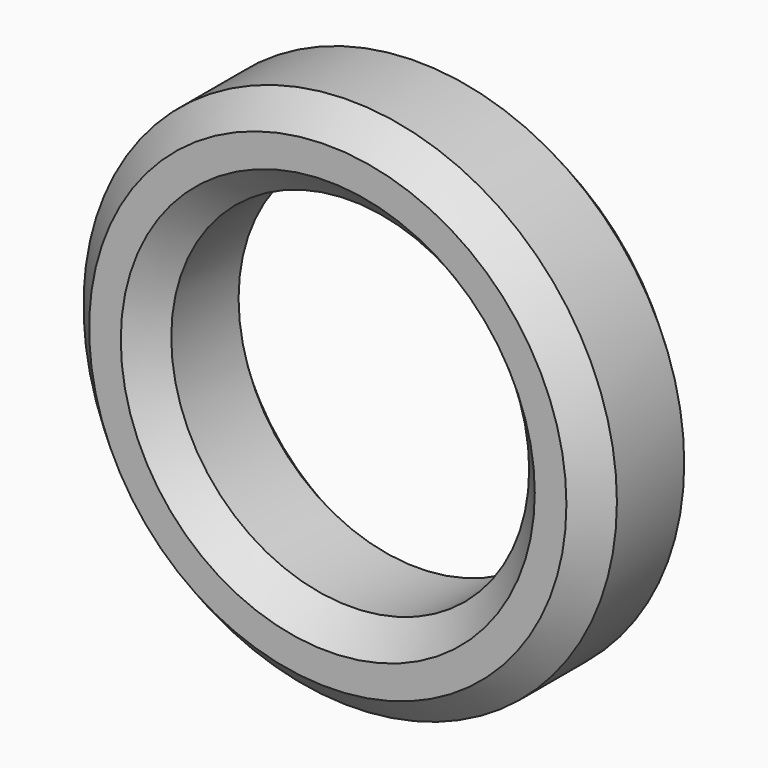
from build123d import *

# Parameters (mm, degrees)
F0_R     = 48.302037
F0_R_2   = 32.411145
F1_DEPTH = 25.4
F2_SIZE  = 5.08


with BuildPart() as f1:
    # F0 (on Front) → F1 (new body)
    with BuildSketch(Plane.XZ):
        Circle(F0_R)
        Circle(F0_R_2, mode=Mode.SUBTRACT)
    extrude(amount=F1_DEPTH)

    # F2
    f2_edges = [f1.edges().sort_by_distance(p)[0] for p in [
        (-48.302037, -25.4, 0),
        (-48.302037, 0, 0),
        (-32.411145, 0, 0),
        (32.411145, -12.7, 0),
        (-32.411145, -25.4, 0),
    ]]
    chamfer(f2_edges, length=F2_SIZE)


solid = f1.part
